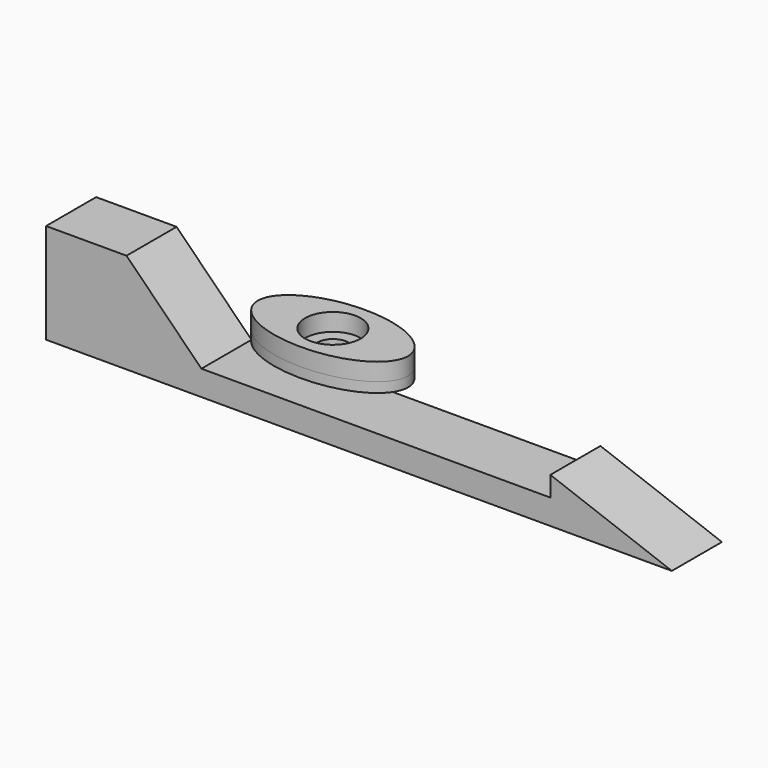
from build123d import *

# Parameters (mm, degrees)
F0_R     = 11.1
F1_DEPTH = 7
F0_R_2   = 6.25
F2_DEPTH = 4
F4_DEPTH = 25


with BuildPart() as f1:
    # F0 (on Top) → F1 (new body)
    with BuildSketch(Plane.XY):
        with BuildLine():
            add(Edge.make_bspline(
                [(30.008441139, 0), (30.008441139, 27.8192877463), (-15.0042205695, 13.9096438731), (-60.0168822779, 0), (-15.0042205695, -13.9096438731), (30.008441139, -27.8192877463), (30.008441139, 0)],
                knots=[0, 0, 0, 2.0943951024, 2.0943951024, 4.1887902048, 4.1887902048, 6.2831853072, 6.2831853072, 6.2831853072], degree=2, weights=[1, 0.5, 1, 0.5, 1, 0.5, 1]))
        make_face()
        Circle(F0_R, mode=Mode.SUBTRACT)
    extrude(amount=F1_DEPTH)

    # F0 (on Top) → F2 (join)
    with BuildSketch(Plane.XY):
        with BuildLine():
            add(Edge.make_bspline(
                [(30.008441139, 0), (30.008441139, 27.8192877463), (-15.0042205695, 13.9096438731), (-60.0168822779, 0), (-15.0042205695, -13.9096438731), (30.008441139, -27.8192877463), (30.008441139, 0)],
                knots=[0, 0, 0, 2.0943951024, 2.0943951024, 4.1887902048, 4.1887902048, 6.2831853072, 6.2831853072, 6.2831853072], degree=2, weights=[1, 0.5, 1, 0.5, 1, 0.5, 1]))
        make_face()
        Circle(F0_R, mode=Mode.SUBTRACT)
        Circle(F0_R)
        Circle(F0_R_2, mode=Mode.SUBTRACT)
    extrude(amount=-F2_DEPTH)


with BuildPart() as f4:
    # F3 (on Front) → F4 (new body)
    with BuildSketch(Plane.XZ):
        Polygon((106.8803320902, -7.5892007072), (-32.526427851, -7.5892007072), (-62.4454933861, 22.4107992928), (-94.5845730603, 22.4107992928), (-94.5845730603, -17.5892007072), (155.4154269397, -17.5892007072), (106.8803320902, 0.4107992928), align=None)
    extrude(amount=F4_DEPTH)


solid = Compound([f1.part, f4.part])
